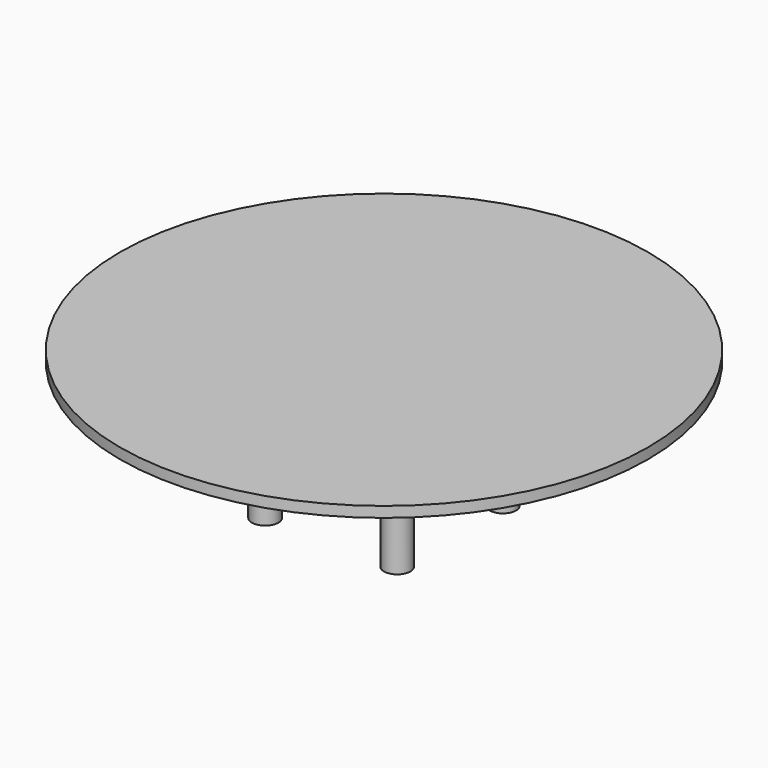
from build123d import *

# Parameters (mm, degrees)
F0_R     = 2.5
F1_DEPTH = 25
F2_R     = 50
F2_R_2   = 2.5
F3_DEPTH = 25
F5_R     = 50
F5_R_2   = 2.5
F6_DEPTH = 2


with BuildPart() as f1:
    # F0 (on Top) → F1 (new body)
    with BuildSketch(Plane.XY):
        with Locations((12.5, 12.5)):
            Circle(F0_R)
        with Locations((-12.5, -12.5)):
            Circle(F0_R)
        with Locations((12.5, -12.5)):
            Circle(F0_R)
        with Locations((-12.5, 12.5)):
            Circle(F0_R)
    extrude(amount=F1_DEPTH)

    # F5 (on face) → F6 (join)
    with BuildSketch(Plane.XY.offset(25)):
        Circle(F5_R)
        with Locations((12.5, 12.5)):
            Circle(F5_R_2, mode=Mode.SUBTRACT)
        with Locations((12.5, 12.5)):
            Circle(F5_R_2)
    extrude(amount=F6_DEPTH)


with BuildPart() as f3:
    # F2 (on face) → F3 (new body)
    with BuildSketch(Plane.XY.offset(25)):
        Circle(F2_R)
        with Locations((12.5, 12.5)):
            Circle(F2_R_2, mode=Mode.SUBTRACT)
    extrude(amount=F3_DEPTH)


solid = f1.part
